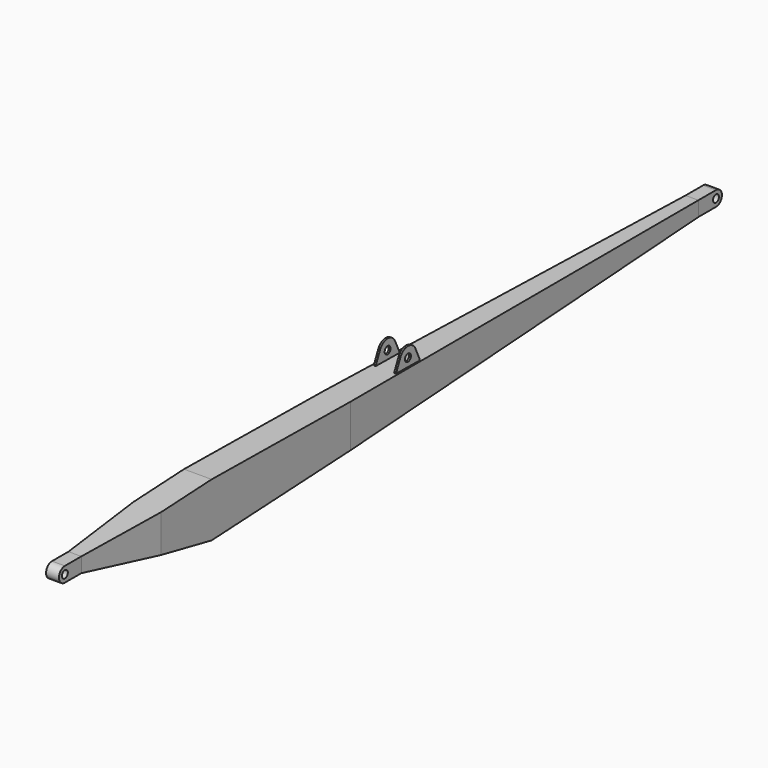
from build123d import *

# Parameters (mm, degrees)
F0_R      = 6.35
F1_DEPTH  = 11.049
F3_DEPTH  = 22.098
F5_DEPTH  = 12.7
F6_DEPTH  = 22.098
F8_DEPTH  = 12.7
F10_DEPTH = 228.6
F11_W     = 3.175
F11_H     = 50.8
F12_DEPTH = 31.75
F13_R     = 6.35
F14_DEPTH = 42.8


with BuildPart() as f1:
    # F0 (on Right) → F1 (new body, symmetric)
    with BuildSketch(Plane.YZ):
        with BuildLine():
            Line((1369.9610694916, 12.7), (-27.0389305084, 12.7))
            ThreePointArc((-27.0389305084, 12.7), (-39.7389305084, 0), (-27.0389305084, -12.7))
            Line((-27.0389305084, -12.7), (1369.9610694916, -12.7))
            ThreePointArc((1369.9610694916, -12.7), (1382.6610694916, 0), (1369.9610694916, 12.7))
        make_face()
        with Locations((-27.0389305084, 0)):
            Circle(F0_R, mode=Mode.SUBTRACT)
        with Locations((1369.9610694916, 0)):
            Circle(F0_R, mode=Mode.SUBTRACT)
    extrude(amount=F1_DEPTH, both=True)

    # F2 (on face) → F3 (join, through all)
    with BuildSketch(Plane.YZ.offset(11.049)):
        Polygon((1332.1480751038, -12.7), (8.231587708, -12.7), (271.9207406044, -66.1958232522), align=None)
    extrude(amount=-F3_DEPTH)

    # F4 (on face) → F5 (join)
    with BuildSketch(Plane.YZ.offset(11.049)):
        Polygon((1332.1480751038, 12.7), (8.231587708, 12.7), (8.231587708, -12.7), (271.9207406044, -66.1958232522), (1332.1480751038, -12.7), align=None)
        Polygon((271.9207406044, 26.0049468334), (8.231587708, 12.7), (1332.1480751038, 12.7), align=None)
    extrude(amount=F5_DEPTH)

    # F6 (add, through all): a face of the model
    f6_faces = [f1.faces().sort_by_distance(p)[0] for p in [
        (11.049, 537.4334678054, 17.1349822778),
    ]]
    extrude(f6_faces, amount=F6_DEPTH)

    # F7 (on face) → F8 (join)
    with BuildSketch(Plane(origin=(-11.049, 0, 0), x_dir=(0, -1, 0), z_dir=(-1, 0, 0))):
        Polygon((-1332.1480751038, 12.7), (-1332.1480751038, -12.7), (-271.9207406044, -66.1958232522), (-8.231587708, -12.7), (-8.231587708, 12.7), (-271.9207406044, 26.0049468334), align=None)
    extrude(amount=F8_DEPTH)

    # F9 (on Top) → F10 (cut, symmetric)
    with BuildSketch(Plane.XY):
        Polygon((-23.749, 570.2539157877), (-11.049, 1332.1480751038), (-42.6509715617, 1362.8944158554), (-507.5538158417, 214.9578332901), (-61.7056079209, -33.5918478668), (-11.049, 8.231587708), (-23.749, 163.8539157877), align=None)
        Polygon((23.749, 163.8539157877), (11.049, 8.231587708), (61.7056079209, -33.5918478668), (507.5538158417, 214.9578332901), (42.6509715617, 1362.8944158554), (11.049, 1332.1480751038), (23.749, 570.2539157877), align=None)
    extrude(amount=F10_DEPTH, both=True, mode=Mode.SUBTRACT)

    # F11 (on face) → F12 (join)
    with BuildSketch(Plane(origin=(0, 0.3691040914, 29.4126877667), x_dir=(1, 0, 0), z_dir=(0, 0.0125481573, 0.9999212688))):
        with Locations((-17.4625, 698.334315244)):
            Rectangle(F11_W, F11_H)
        with Locations((17.4625, 698.334315244)):
            Rectangle(F11_W, F11_H)
    extrude(amount=F12_DEPTH)

    # F13 (on face) → F14 (cut, through all)
    with BuildSketch(Plane.YZ.offset(19.05)):
        with BuildLine():
            Line((673.6488423855, 52.7161024408), (673.2504383927, 20.9686021572))
            Line((673.2504383927, 20.9686021572), (683.2025858499, 42.5725283176))
            ThreePointArc((683.2025858499, 42.5725283176), (689.7252525102, 49.7418257688), (699.0468426124, 52.3973792465))
            Line((699.0468426124, 52.3973792465), (673.6488423855, 52.7161024408))
        make_face()
        with Locations((699.0468426124, 34.7091633821)):
            Circle(F13_R)
        with BuildLine():
            Line((714.891099375, 42.5725283176), (724.0753566856, 22.6355229997))
            Line((724.0753566856, 22.6355229997), (724.4448428393, 52.0786560523))
            Line((724.4448428393, 52.0786560523), (699.4907166914, 52.3918090062))
            ThreePointArc((699.4907166914, 52.3918090062), (708.556331026, 49.6236734504), (714.891099375, 42.5725283176))
        make_face()
    extrude(amount=-F14_DEPTH, mode=Mode.SUBTRACT)


solid = f1.part
